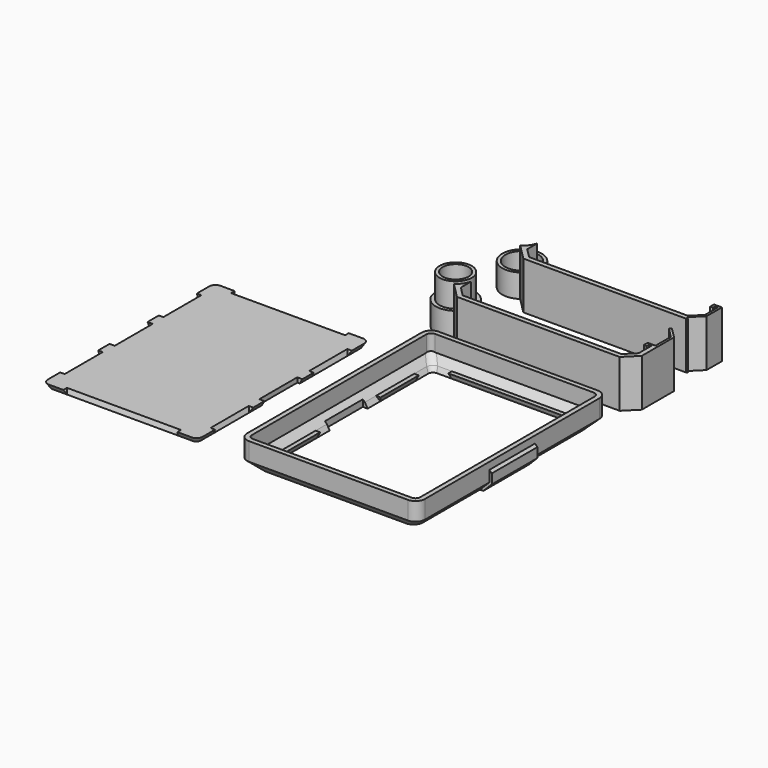
from build123d import *

# Parameters (mm, degrees)
F4_DEPTH  = 30
F3_R      = 10.2
F3_R_2    = 8.2
F3_R_3    = 10.5
F5_DEPTH  = 14.75
F3_R_4    = 6.2
F6_DEPTH  = 2
F11_DEPTH = 11.5
F12_T     = -3
F15_W     = 70
F15_H     = 1.7573593129
F15_W_2   = 1.7573593129
F15_H_2   = 28
F16_DEPTH = 30.001
F16_TAPER = -20
F15_W_3   = 3.2573593129
F15_H_3   = 30
F15_W_4   = 3
F19_DEPTH = 30.001
F21_DEPTH = 18


with BuildPart() as f4:
    # F3 (on Top) → F4 (new body)
    with BuildSketch(Plane.XY):
        with BuildLine():
            ThreePointArc((12.5, 48.9292857857), (10.5768349974, 44.941523868), (7.4269568595, 41.8304024534))
            Line((7.4269568595, 41.8304024534), (17.2573593129, 32))
            Line((17.2573593129, 32), (120.2426406871, 32))
            Line((120.2426406871, 32), (120.8431457505, 32.6005050634))
            Line((120.8431457505, 32.6005050634), (119.7824855787, 33.6611652352))
            Line((119.7824855787, 33.6611652352), (126.5, 40.3786796564))
            Line((126.5, 40.3786796564), (126.5, 52.5))
            Line((126.5, 52.5), (125, 52.5))
            Line((125, 52.5), (121.5, 52.5))
            Line((121.5, 52.5), (121.5, 49.5))
            Line((121.5, 49.5), (123.25, 49.5))
            Line((123.25, 49.5), (123.25, 51.25))
            Line((123.25, 51.25), (125, 51.25))
            Line((125, 51.25), (125, 41))
            Line((125, 41), (119, 35))
            Line((119, 35), (18.5, 35))
            Line((18.5, 35), (12.5, 41))
            Line((12.5, 41), (12.5, 48.9292857857))
        make_face()
    extrude(amount=F4_DEPTH)

    # F3 (on Top) → F5 (join)
    with BuildSketch(Plane.XY):
        with BuildLine():
            ThreePointArc((7.0675415119, 42.189817801), (11.0588034818, 46.6730912526), (12.5, 52.5))
            ThreePointArc((12.5, 52.5), (-11.0588034818, 58.3269087474), (7.0675415119, 42.189817801))
        make_face()
        with Locations((0, 52.5)):
            Circle(F3_R_3, mode=Mode.SUBTRACT)
        with BuildLine():
            Line((16, 52.5), (12.5, 52.5))
            ThreePointArc((12.5, 52.5), (11.0588034818, 46.6730912526), (7.0675415119, 42.189817801))
            Line((7.0675415119, 42.189817801), (7.4269568595, 41.8304024534))
            ThreePointArc((7.4269568595, 41.8304024534), (10.5768349974, 44.941523868), (12.5, 48.9292857857))
            Line((12.5, 48.9292857857), (12.5, 51.25))
            Line((12.5, 51.25), (14.25, 51.25))
            Line((14.25, 51.25), (14.25, 49.5))
            Line((14.25, 49.5), (16, 49.5))
            Line((16, 49.5), (16, 52.5))
        make_face()
    extrude(amount=F5_DEPTH)


with BuildPart() as f4b:
    # F3 (on Top) → F4, piece 2 (new body)
    with BuildSketch(Plane.XY):
        with BuildLine():
            ThreePointArc((12.5, -3.5707142143), (10.5768349974, -7.558476132), (7.4269568595, -10.6695975466))
            Line((7.4269568595, -10.6695975466), (17.2573593129, -20.5))
            Line((17.2573593129, -20.5), (120.2426406871, -20.5))
            Line((120.2426406871, -20.5), (128, -12.7426406871))
            Line((128, -12.7426406871), (128, 12.7426406871))
            Line((128, 12.7426406871), (121.1966991411, 19.545941546))
            Line((121.1966991411, 19.545941546), (120.1360389693, 18.4852813742))
            Line((120.1360389693, 18.4852813742), (126.5, 12.1213203436))
            Line((126.5, 12.1213203436), (126.5, 0))
            Line((126.5, 0), (125, 0))
            Line((125, 0), (121.5, 0))
            Line((121.5, 0), (121.5, -3))
            Line((121.5, -3), (123.25, -3))
            Line((123.25, -3), (123.25, -1.25))
            Line((123.25, -1.25), (125, -1.25))
            Line((125, -1.25), (125, -11.5))
            Line((125, -11.5), (119, -17.5))
            Line((119, -17.5), (18.5, -17.5))
            Line((18.5, -17.5), (12.5, -11.5))
            Line((12.5, -11.5), (12.5, -3.5707142143))
        make_face()
    extrude(amount=F4_DEPTH)



with BuildPart() as f4c:
    # F3 (on Top) → F4, piece 3 (new body)
    with BuildSketch(Plane.XY):
        Circle(F3_R)
        Circle(F3_R_2, mode=Mode.SUBTRACT)
    extrude(amount=F4_DEPTH)


with BuildPart() as f4b_1:
    add(f4b.part)

    add(f4c.part)  # F5#2 merges F4c
    # F3 (on Top) → F5, piece 2 (join)
    with BuildSketch(Plane.XY):
        with BuildLine():
            ThreePointArc((7.0675415119, -10.310182199), (11.0588034818, -5.8269087474), (12.5, 0))
            ThreePointArc((12.5, 0), (-11.0588034818, 5.8269087474), (7.0675415119, -10.310182199))
        make_face()
        Circle(F3_R, mode=Mode.SUBTRACT)
        Circle(F3_R)
        Circle(F3_R_2, mode=Mode.SUBTRACT)
        with BuildLine():
            Line((16, 0), (12.5, 0))
            ThreePointArc((12.5, 0), (11.0588034818, -5.8269087474), (7.0675415119, -10.310182199))
            Line((7.0675415119, -10.310182199), (7.4269568595, -10.6695975466))
            ThreePointArc((7.4269568595, -10.6695975466), (10.5768349974, -7.558476132), (12.5, -3.5707142143))
            Line((12.5, -3.5707142143), (12.5, -1.25))
            Line((12.5, -1.25), (14.25, -1.25))
            Line((14.25, -1.25), (14.25, -3))
            Line((14.25, -3), (16, -3))
            Line((16, -3), (16, 0))
        make_face()
    extrude(amount=F5_DEPTH)

    # F3 (on Top) → F6 (join)
    with BuildSketch(Plane.XY):
        Circle(F3_R_2)
        Circle(F3_R_4, mode=Mode.SUBTRACT)
    extrude(amount=F6_DEPTH)


with BuildPart() as f10:
    # F9 (on offset) → F10 section 0
    with BuildSketch(Plane.XY.offset(6)):
        with BuildLine():
            Line((119, -36.5), (18.5, -36.5))
            ThreePointArc((18.5, -36.5), (14.2573593129, -38.2573593129), (12.5, -42.5))
            Line((12.5, -42.5), (12.5, -180.5))
            ThreePointArc((12.5, -180.5), (14.2573593129, -184.7426406871), (18.5, -186.5))
            Line((18.5, -186.5), (119, -186.5))
            ThreePointArc((119, -186.5), (123.2426406871, -184.7426406871), (125, -180.5))
            Line((125, -180.5), (125, -42.5))
            ThreePointArc((125, -42.5), (123.2426406871, -38.2573593129), (119, -36.5))
        make_face()
    # F7 (on Top) → F10 section 1
    with BuildSketch(Plane.XY):
        with BuildLine():
            Line((113, -42.5), (24.5, -42.5))
            ThreePointArc((24.5, -42.5), (20.2573593129, -44.2573593129), (18.5, -48.5))
            Line((18.5, -48.5), (18.5, -174.5))
            ThreePointArc((18.5, -174.5), (20.2573593129, -178.7426406871), (24.5, -180.5))
            Line((24.5, -180.5), (113, -180.5))
            ThreePointArc((113, -180.5), (117.2426406871, -178.7426406871), (119, -174.5))
            Line((119, -174.5), (119, -48.5))
            ThreePointArc((119, -48.5), (117.2426406871, -44.2573593129), (113, -42.5))
        make_face()
    loft()

    # F9 (on offset) → F11 (join)
    with BuildSketch(Plane.XY.offset(6)):
        with BuildLine():
            Line((119, -36.5), (18.5, -36.5))
            ThreePointArc((18.5, -36.5), (14.2573593129, -38.2573593129), (12.5, -42.5))
            Line((12.5, -42.5), (12.5, -180.5))
            ThreePointArc((12.5, -180.5), (14.2573593129, -184.7426406871), (18.5, -186.5))
            Line((18.5, -186.5), (119, -186.5))
            ThreePointArc((119, -186.5), (123.2426406871, -184.7426406871), (125, -180.5))
            Line((125, -180.5), (125, -42.5))
            ThreePointArc((125, -42.5), (123.2426406871, -38.2573593129), (119, -36.5))
        make_face()
    extrude(amount=F11_DEPTH)

    # F12
    f12_openings = [f10.faces().sort_by_distance(p)[0] for p in [
        (68.75, -111.5, 17.5),
    ]]
    offset(amount=F12_T, openings=f12_openings)

    # F18: F14 across plane


with BuildPart() as f14:
    # F7 (on Top) → F14 section 0
    with BuildSketch(Plane.XY):
        with BuildLine():
            Line((-21.5, -174.5), (-21.5, -48.5))
            ThreePointArc((-21.5, -48.5), (-22.3786796564, -46.3786796564), (-24.5, -45.5))
            Line((-24.5, -45.5), (-113, -45.5))
            ThreePointArc((-113, -45.5), (-115.1213203436, -46.3786796564), (-116, -48.5))
            Line((-116, -48.5), (-116, -174.5))
            ThreePointArc((-116, -174.5), (-115.1213203436, -176.6213203436), (-113, -177.5))
            Line((-113, -177.5), (-24.5, -177.5))
            ThreePointArc((-24.5, -177.5), (-22.3786796564, -176.6213203436), (-21.5, -174.5))
        make_face()
    # F13 (on face) → F14 section 1
    with BuildSketch(Plane.XY.offset(3)):
        with BuildLine():
            Line((-23.6213203436, -43.7426406871), (-113.8786796564, -43.7426406871))
            ThreePointArc((-113.8786796564, -43.7426406871), (-116.6213203436, -44.8786796564), (-117.7573593129, -47.6213203436))
            Line((-117.7573593129, -47.6213203436), (-117.7573593129, -175.3786796564))
            ThreePointArc((-117.7573593129, -175.3786796564), (-116.6213203436, -178.1213203436), (-113.8786796564, -179.2573593129))
            Line((-113.8786796564, -179.2573593129), (-23.6213203436, -179.2573593129))
            ThreePointArc((-23.6213203436, -179.2573593129), (-20.8786796564, -178.1213203436), (-19.7426406871, -175.3786796564))
            Line((-19.7426406871, -175.3786796564), (-19.7426406871, -47.6213203436))
            ThreePointArc((-19.7426406871, -47.6213203436), (-20.8786796564, -44.8786796564), (-23.6213203436, -43.7426406871))
        make_face()
    loft()

    # F15 (on Top) → F16 (cut, through all)
    with BuildSketch(Plane.XY):
        with Locations((-68.75, -44.6213203436)):
            Rectangle(F15_W, F15_H)
        with Locations((-68.75, -178.3786796564)):
            Rectangle(F15_W, F15_H)
        with Locations((-116.8786796564, -72.5)):
            Rectangle(F15_W_2, F15_H_2)
        with Locations((-116.8786796564, -150.5)):
            Rectangle(F15_W_2, F15_H_2)
        with Locations((-20.6213203436, -72.5)):
            Rectangle(F15_W_2, F15_H_2)
        with Locations((-20.6213203436, -150.5)):
            Rectangle(F15_W_2, F15_H_2)
    extrude(amount=F16_DEPTH, taper=F16_TAPER, mode=Mode.SUBTRACT)


with BuildPart() as f10_1:
    add(f10.part)
    add(f14.part.mirror(Plane.YZ), mode=Mode.SUBTRACT)


with BuildPart() as f19_tool:
    # F15 (on Top) → F19 (new body, through all)
    with BuildSketch(Plane.XY):
        with Locations((-116.1286796564, -111.5)):
            Rectangle(F15_W_3, F15_H_3)
        with Locations((-21.3713203436, -111.5)):
            Rectangle(F15_W_3, F15_H_3)
        with Locations((20, -111.5)):
            Rectangle(F15_W_4, F15_H_3)
        with Locations((117.5, -111.5)):
            Rectangle(F15_W_4, F15_H_3)
    extrude(amount=F19_DEPTH)


with BuildPart() as f10_2:
    add(f10_1.part)

    # F19: cut by f19_tool
    add(f19_tool.part, mode=Mode.SUBTRACT)

    # F20 (on line) → F21 (join, symmetric)
    with BuildSketch(Plane(origin=(0, -111.5, 0), x_dir=(-1, 0, 0), z_dir=(0, 1, 0))):
        Polygon((-12.5, 3.8786796564), (-12.5, 6), (-18.5, 0), (-16.3786796564, 0), align=None)
        Polygon((-119, 0), (-125, 6), (-125, 3.8786796564), (-121.1213203436, 0), align=None)
        Polygon((-11, 11.5), (-12.5, 13), (-12.5, 6), (-12.5, 3.8786796564), (-11, 5.3786796564), align=None)
        Polygon((-125, 6), (-125, 13), (-126.5, 11.5), (-126.5, 5.3786796564), (-125, 3.8786796564), align=None)
    extrude(amount=F21_DEPTH, both=True)


with BuildPart() as f14_1:
    add(f14.part)

    # F19: cut by f19_tool
    add(f19_tool.part, mode=Mode.SUBTRACT)


solid = Compound([f4.part, f4b_1.part, f10_2.part, f14_1.part])
